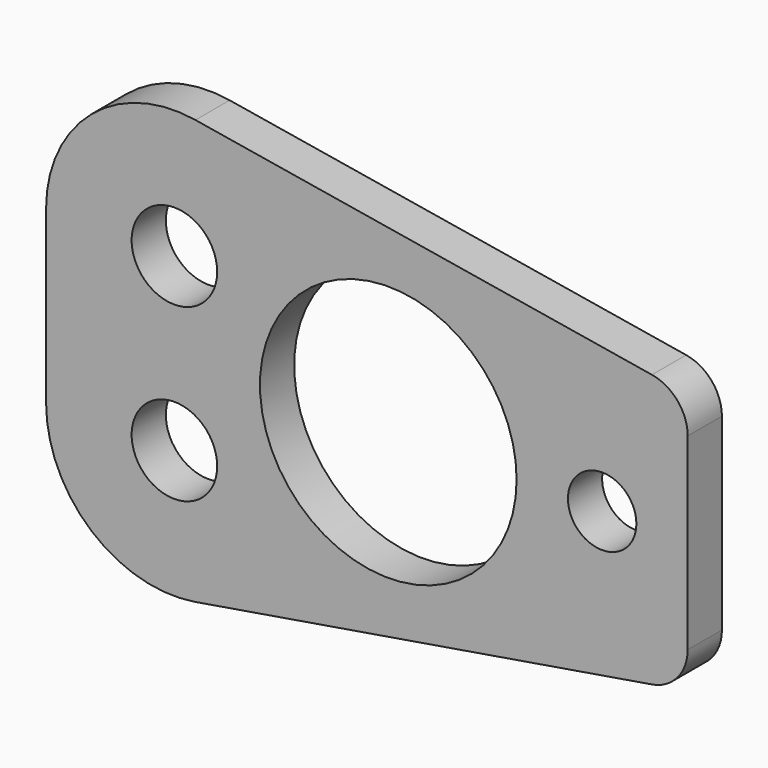
from build123d import *

# Parameters (mm, degrees)
F0_R     = 5
F0_R_2   = 15
F0_R_3   = 4
F1_DEPTH = 5


with BuildPart() as f1:
    # F0 (on Front) → F1 (new body)
    with BuildSketch(Plane.XZ):
        with BuildLine():
            Line((30.819411, 15.9324), (-22.541767, 24.797199))
            ThreePointArc((-22.541767, 24.797199), (-34.698621, 21.44276), (-40, 10))
            Line((-40, 10), (-40, -10))
            ThreePointArc((-40, -10), (-34.698621, -21.44276), (-22.541767, -24.797199))
            Line((-22.541767, -24.797199), (30.819411, -15.9324))
            ThreePointArc((30.819411, -15.9324), (33.814253, -14.232874), (35, -11))
            Line((35, -11), (35, 11))
            ThreePointArc((35, 11), (33.814253, 14.232874), (30.819411, 15.9324))
        make_face()
        with Locations((-25, -10)):
            Circle(F0_R, mode=Mode.SUBTRACT)
        Circle(F0_R_2, mode=Mode.SUBTRACT)
        with Locations((25, 0)):
            Circle(F0_R_3, mode=Mode.SUBTRACT)
        with Locations((-25, 10)):
            Circle(F0_R, mode=Mode.SUBTRACT)
    extrude(amount=F1_DEPTH)


solid = f1.part
